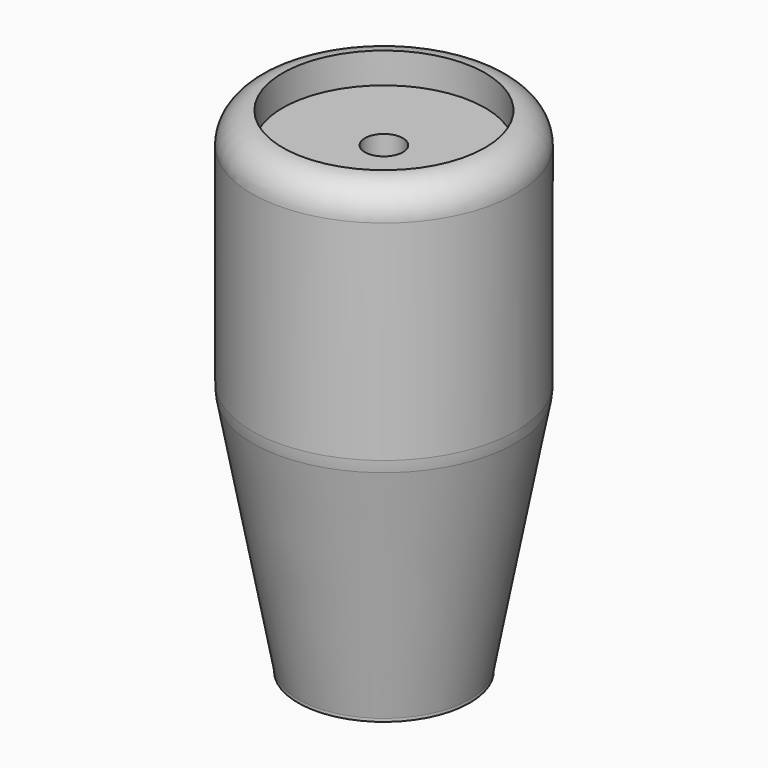
from build123d import *

# Parameters (mm, degrees)
F0_R      = 21.5
F1_DEPTH  = 40
F2_R      = 5
F3_R      = 21.5
F4_DEPTH  = 40
F5_SIZE2  = 7.5
F5_SIZE   = 40
F6_DEPTH  = 10
F7_R      = 10
F10_R     = 4.9
F11_DEPTH = 75
F12_R     = 16.5
F13_DEPTH = 5
F14_R     = 3.1
F15_DEPTH = 85.001
F16_R     = 12.5
F17_DEPTH = 76


with BuildPart() as f1:
    # F0 (on Top) → F1 (new body)
    with BuildSketch(Plane.XY):
        Circle(F0_R)
    extrude(amount=F1_DEPTH)

    # F2
    f2_edges = [f1.edges().sort_by_distance(p)[0] for p in [
        (-21.5, 0, 40),
    ]]
    fillet(f2_edges, radius=F2_R)

    # F3 (on face) → F4 (join)
    with BuildSketch(Plane(origin=(0, 0, 0), x_dir=(1, 0, 0), z_dir=(0, 0, -1))):
        Circle(F3_R)
    extrude(amount=F4_DEPTH)

    # F5
    f5_edges = [f1.edges().sort_by_distance(p)[0] for p in [
        (-21.5, 0, -40),
    ]]
    chamfer(f5_edges, length=F5_SIZE, length2=F5_SIZE2)

    # F6 (add): a face of the model
    f6_faces = [f1.faces().sort_by_distance(p)[0] for p in [
        (0, 0, -40),
    ]]
    extrude(f6_faces, amount=F6_DEPTH)

    # F7
    f7_edges = [f1.edges().sort_by_distance(p)[0] for p in [
        (-21.5, 0, 0),
    ]]
    fillet(f7_edges, radius=F7_R)

    # F8 (on Right) → F9 (revolve, cut)
    with BuildSketch(Plane.YZ):
        Polygon((-7.5, -40.5), (-17.4298945979, -40.5), (-17.4298945979, -47.5), (-17.4298945979, -53.659953177), (-10, -53.659953177), (-10, -47.5), (-7.5, -47.5), align=None)
    revolve(axis=Axis((0, 0, -53.4000843763), (0, 0, -1)), mode=Mode.SUBTRACT)

    # F10 (on face) → F11 (cut)
    with BuildSketch(Plane(origin=(0, 0, -50), x_dir=(1, 0, 0), z_dir=(0, 0, -1))):
        Circle(F10_R)
    extrude(amount=-F11_DEPTH, mode=Mode.SUBTRACT)

    # F12 (on face) → F13 (cut)
    with BuildSketch(Plane.XY.offset(40)):
        Circle(F12_R)
    extrude(amount=-F13_DEPTH, mode=Mode.SUBTRACT)

    # F14 (on face) → F15 (cut, through all)
    with BuildSketch(Plane.XY.offset(35)):
        Circle(F14_R)
    extrude(amount=-F15_DEPTH, mode=Mode.SUBTRACT)

    # F16 (on face) → F17 (cut)
    with BuildSketch(Plane(origin=(0, 0, -50), x_dir=(1, 0, 0), z_dir=(0, 0, -1))):
        Circle(F16_R)
    extrude(amount=-F17_DEPTH, mode=Mode.SUBTRACT)


solid = f1.part
